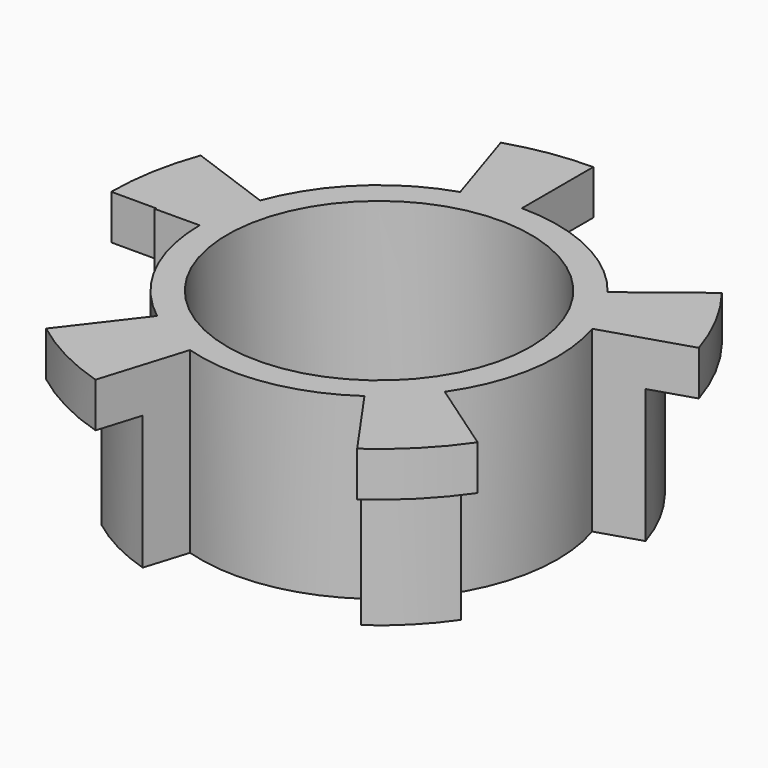
from build123d import *

# Parameters (mm, degrees)
F0_R     = 25
F0_R_2   = 15
F1_DEPTH = 80
F3_DEPTH = 80.001
F5_DEPTH = 5
F6_W     = 105.9157028794
F6_H     = 79.6656981111
F7_DEPTH = 60
F8_R     = 17
F9_DEPTH = 20.001


with BuildPart() as f1:
    # F0 (on Top) → F1 (new body)
    with BuildSketch(Plane.XY):
        Circle(F0_R)
        Circle(F0_R_2, mode=Mode.SUBTRACT)
    extrude(amount=F1_DEPTH)

    # F2 (on face) → F3 (cut, through all)
    with BuildSketch(Plane.XY.offset(80)):
        with BuildLine():
            Line((0, 25), (0, 20))
            ThreePointArc((0, 20), (8.7875598508, 17.9660455267), (15.7877700348, 12.2778791869))
            Line((15.7877700348, 12.2778791869), (19.7347125435, 15.3473489836))
            ThreePointArc((19.7347125435, 15.3473489836), (10.9844498135, 22.4575569084), (0, 25))
        make_face()
        with BuildLine():
            Line((-6.1376971007, 19.0349329996), (-7.6721213759, 23.7936662495))
            ThreePointArc((-7.6721213759, 23.7936662495), (-17.3462974082, 18.0029432657), (-23.4923155196, 8.5505035831))
            Line((-23.4923155196, 8.5505035831), (-18.7938524157, 6.8404028665))
            ThreePointArc((-18.7938524157, 6.8404028665), (-13.8770379265, 14.4023546125), (-6.1376971007, 19.0349329996))
        make_face()
        with BuildLine():
            Line((-19.9995793719, -0.1297110174), (-24.9994742148, -0.1621387717))
            ThreePointArc((-24.9994742148, -0.1621387717), (-22.3858443864, -11.1298684228), (-15.2190357252, -19.8338335073))
            Line((-15.2190357252, -19.8338335073), (-12.1752285802, -15.8670668058))
            ThreePointArc((-12.1752285802, -15.8670668058), (-17.9086755091, -8.9038947382), (-19.9995793719, -0.1297110174))
        make_face()
        with BuildLine():
            ThreePointArc((-7.362852386, -23.8911783875), (3.8831909406, -24.6965752306), (14.3394109088, -20.4788011072))
            Line((14.3394109088, -20.4788011072), (11.471528727, -16.3830408858))
            ThreePointArc((11.471528727, -16.3830408858), (3.1065527525, -19.7572601845), (-5.8902819088, -19.11294271))
            Line((-5.8902819088, -19.11294271), (-7.362852386, -23.8911783875))
        make_face()
        with BuildLine():
            ThreePointArc((25, 0), (24.7090377617, 3.8030846547), (23.8429237687, 7.5176449876))
            Line((23.8429237687, 7.5176449876), (19.074339015, 6.0141159901))
            ThreePointArc((19.074339015, 6.0141159901), (19.7769923674, -2.9783507013), (16.4570955105, -11.3650344196))
            Line((16.4570955105, -11.3650344196), (20.5713693881, -14.2062930245))
            ThreePointArc((20.5713693881, -14.2062930245), (23.8671765685, -7.4402878068), (25, 0))
        make_face()
    extrude(amount=-F3_DEPTH, mode=Mode.SUBTRACT)

    # F4 (on face) → F5 (join)
    with BuildSketch(Plane.XY.offset(80)):
        with BuildLine():
            ThreePointArc((19.7347125435, 15.3473489836), (22.1377203615, 11.6155644372), (23.8429237687, 7.5176449876))
            Line((23.8429237687, 7.5176449876), (28.6115085224, 9.0211739851))
            ThreePointArc((28.6115085224, 9.0211739851), (26.5652644339, 13.9386773246), (23.6816550522, 18.4168187804))
            Line((23.6816550522, 18.4168187804), (19.7347125435, 15.3473489836))
        make_face()
        with BuildLine():
            ThreePointArc((-7.6721213759, 23.7936662495), (-3.8831909406, 24.6965752306), (0, 25))
            Line((0, 25), (0, 30))
            ThreePointArc((0, 30), (-4.6598291287, 29.6358902767), (-9.2065456511, 28.5523994994))
            Line((-9.2065456511, 28.5523994994), (-7.6721213759, 23.7936662495))
        make_face()
        with BuildLine():
            ThreePointArc((-25, 0), (-24.6201938253, 4.3412044417), (-23.4923155196, 8.5505035831))
            Line((-23.4923155196, 8.5505035831), (-28.1907786236, 10.2606042998))
            ThreePointArc((-28.1907786236, 10.2606042998), (-29.5442325904, 5.20944533), (-30, 0))
            Line((-30, 0), (-25, 0))
        make_face()
        with BuildLine():
            Line((-8.8354228632, -28.669414065), (-7.362852386, -23.8911783875))
            ThreePointArc((-7.362852386, -23.8911783875), (-11.471744834, -22.2125881082), (-15.2190357252, -19.8338335073))
            Line((-15.2190357252, -19.8338335073), (-18.2628428703, -23.8006002087))
            ThreePointArc((-18.2628428703, -23.8006002087), (-13.7660938008, -26.6551057298), (-8.8354228632, -28.669414065))
        make_face()
        with BuildLine():
            Line((24.6856432657, -17.0475516294), (20.5713693881, -14.2062930245))
            ThreePointArc((20.5713693881, -14.2062930245), (17.7349015968, -17.620251569), (14.3394109088, -20.4788011072))
            Line((14.3394109088, -20.4788011072), (17.2072930905, -24.5745613287))
            ThreePointArc((17.2072930905, -24.5745613287), (21.2818819161, -21.1443018827), (24.6856432657, -17.0475516294))
        make_face()
        with BuildLine():
            Line((-4.6032728256, 14.2761997497), (-6.1376971007, 19.0349329996))
            ThreePointArc((-6.1376971007, 19.0349329996), (-13.8770379265, 14.4023546125), (-18.7938524157, 6.8404028665))
            Line((-18.7938524157, 6.8404028665), (-14.0953893118, 5.1303021499))
            ThreePointArc((-14.0953893118, 5.1303021499), (-10.4077784449, 10.8017659594), (-4.6032728256, 14.2761997497))
        make_face()
        with BuildLine():
            Line((11.8408275261, 9.2084093902), (15.7877700348, 12.2778791869))
            ThreePointArc((15.7877700348, 12.2778791869), (8.7875598508, 17.9660455267), (0, 20))
            Line((0, 20), (0, 15))
            ThreePointArc((0, 15), (6.5906698881, 13.4745341451), (11.8408275261, 9.2084093902))
        make_face()
        with BuildLine():
            ThreePointArc((16.4570955105, -11.3650344196), (19.7769923674, -2.9783507013), (19.074339015, 6.0141159901))
            Line((19.074339015, 6.0141159901), (14.3057542612, 4.5105869926))
            ThreePointArc((14.3057542612, 4.5105869926), (14.825422657, 2.2818507928), (15, 0))
            ThreePointArc((15, 0), (14.3203059411, -4.4641726841), (12.3428216329, -8.5237758147))
            Line((12.3428216329, -8.5237758147), (16.4570955105, -11.3650344196))
        make_face()
        with BuildLine():
            ThreePointArc((-5.8902819088, -19.11294271), (3.1065527525, -19.7572601845), (11.471528727, -16.3830408858))
            Line((11.471528727, -16.3830408858), (8.6036465453, -12.2872806643))
            ThreePointArc((8.6036465453, -12.2872806643), (2.3299145644, -14.8179451383), (-4.4177114316, -14.3347070325))
            Line((-4.4177114316, -14.3347070325), (-5.8902819088, -19.11294271))
        make_face()
    extrude(amount=-F5_DEPTH)

    # F6 (on Top) → F7 (cut)
    with BuildSketch(Plane.XY):
        with Locations((1.6787797213, 0.4578493536)):
            Rectangle(F6_W, F6_H)
    extrude(amount=F7_DEPTH, mode=Mode.SUBTRACT)

    # F8 (on face) → F9 (cut, through all)
    with BuildSketch(Plane.XY.offset(80)):
        Circle(F8_R)
    extrude(amount=-F9_DEPTH, mode=Mode.SUBTRACT)


solid = f1.part
